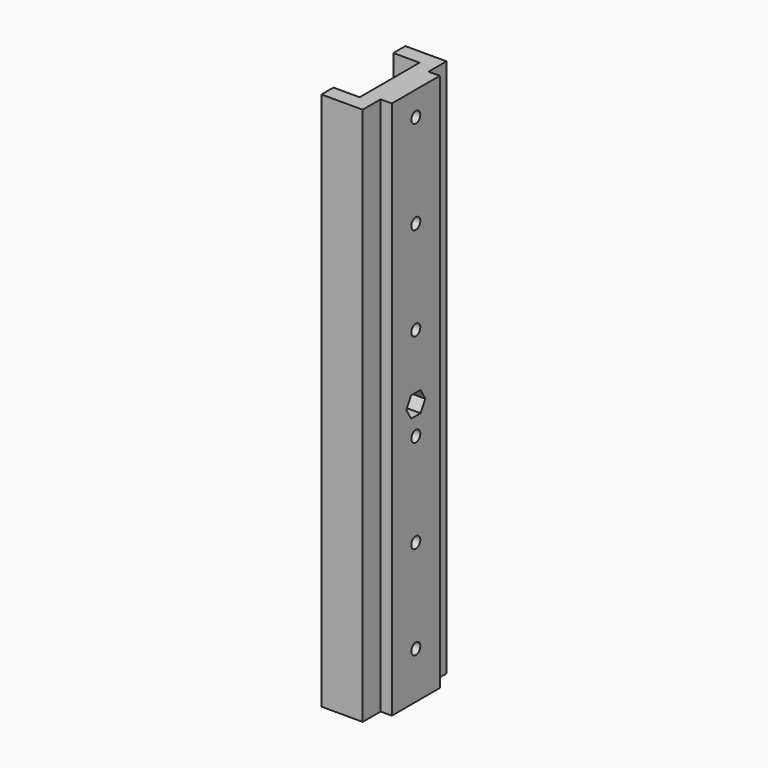
from build123d import *

# Parameters (mm, degrees)
PAD034_DEPTH            = 144
SKETCH063_R             = 1.5
POCKET027_DEPTH         = 7
POCKET028_DEPTH         = 4
SKETCH067_R             = 1.5
POCKET031_DEPTH         = 7
POCKET032_DEPTH         = 5
BODY019_ROLL_ANGLE      = 90
BODY019_PLACEMENT_ANGLE = 180


with BuildPart() as rightlow:
    # Sketch062 → Pad034 (new body)
    with BuildSketch(Plane.XZ):
        Polygon((0, 0), (0, 10), (-7, 10), (-7, 14), (4, 14), (4, 8), (7, 8), (7, -8), (4, -8), (4, -14), (-7, -14), (-7, -10), (0, -10), align=None)
    extrude(amount=PAD034_DEPTH)

    # Sketch063 (on Face6 of Pad034) → Pocket027 (cut)
    with BuildSketch(Plane(origin=(7, 0, 0), x_dir=(0, 0, 1), z_dir=(1, 0, 0))):
        with Locations((0, 74)):
            Circle(SKETCH063_R)
    extrude(amount=-POCKET027_DEPTH, mode=Mode.SUBTRACT)

    # Sketch064 (on Face11 of Pocket027) → Pocket028 (cut)
    with BuildSketch(Plane(origin=(7, 0, 0), x_dir=(0, 0, 1), z_dir=(1, 0, 0))):
        Polygon((3.176, 74.000007), (1.587994, 76.7505), (-1.588006, 76.750493), (-3.176, 73.999993), (-1.587994, 71.2495), (1.588006, 71.249507), align=None)
    extrude(amount=-POCKET028_DEPTH, mode=Mode.SUBTRACT)

    # Sketch067 (on Face2 of Pocket028) → Pocket031 (cut)
    with BuildSketch(Plane(origin=(0, 0, 0), x_dir=(0, 0, -1), z_dir=(-1, 0, 0))):
        with Locations((0, 131.5)):
            Circle(SKETCH067_R)
        with Locations((0, 106.5)):
            Circle(SKETCH067_R)
        with Locations((0, 56.5)):
            Circle(SKETCH067_R)
        with Locations((0, 31.5)):
            Circle(SKETCH067_R)
        with Locations((0, 6.5)):
            Circle(SKETCH067_R)
        with Locations((0, 81.5)):
            Circle(SKETCH067_R)
    extrude(amount=-POCKET031_DEPTH, mode=Mode.SUBTRACT)

    # Sketch068 → Pocket032 (cut)
    with BuildSketch(Plane(origin=(0, 0, 0), x_dir=(0, 0, -1), z_dir=(-1, 0, 0))):
        Polygon((3.175246, 131.569182), (1.52771, 134.284435), (-1.647536, 134.215253), (-3.175246, 131.430818), (-1.52771, 128.715565), (1.647536, 128.784747), align=None)
        Polygon((3.176, 106.5), (1.588, 109.250497), (-1.588, 109.250497), (-3.176, 106.5), (-1.588, 103.749503), (1.588, 103.749503), align=None)
        Polygon((3.176, 56.50001), (1.587991, 59.250502), (-1.588009, 59.250491), (-3.176, 56.49999), (-1.587991, 53.749498), (1.588009, 53.749509), align=None)
        Polygon((3.176, 31.499996), (1.588004, 34.250495), (-1.587996, 34.250499), (-3.176, 31.500004), (-1.588004, 28.749505), (1.587996, 28.749501), align=None)
        Polygon((3.176, 81.5), (1.588, 84.250497), (-1.588, 84.250497), (-3.176, 81.5), (-1.588, 78.749503), (1.588, 78.749503), align=None)
        Polygon((3.176, 6.5), (1.588, 9.250497), (-1.588, 9.250497), (-3.176, 6.5), (-1.588, 3.749503), (1.588, 3.749503), align=None)
    extrude(amount=-POCKET032_DEPTH, mode=Mode.SUBTRACT)


with BuildPart() as rightlow_1:
    # Body019 roll: moved
    add(rightlow.part.rotate(Axis((0, 0, 0), (1, 0, 0)), BODY019_ROLL_ANGLE))


with BuildPart() as rightlow_2:
    # Body019 placement: moved
    add(rightlow_1.part.moved(Location((120, -275.5, 144))).rotate(Axis((120, -275.5, 144), (0, 0, 1)), BODY019_PLACEMENT_ANGLE))


with BuildPart() as leftlow:
    # Part__Mirroring008: instance of RightLow
    add(rightlow_2.part.mirror(Plane(origin=(0, 0, 0), x_dir=(0, -1, 0), z_dir=(1, 0, 0))))


solid = leftlow.part
